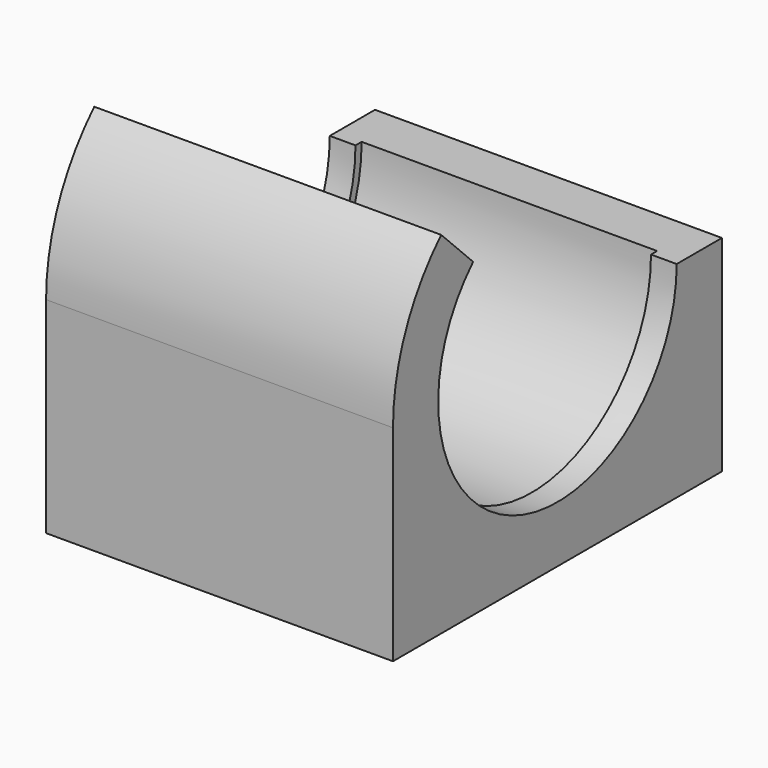
from build123d import *

# Parameters (mm, degrees)
PAD_DEPTH    = 13.5
PAD001_DEPTH = 1
PAD008_DEPTH = 1


with BuildPart() as part:
    # Sketch → Pad (new body)
    with BuildSketch(Plane.YZ):
        with BuildLine():
            Line((-8, 0), (-8, -8))
            Line((-8, -8), (8, -8))
            Line((8, 0), (8, -8))
            Line((8, 0), (6.1, 0))
            ThreePointArc((-6.1, 0), (0, -6.1), (6.1, 0))
            ThreePointArc((-4.3133513652, 4.3133513652), (-5.6356651483, 2.3343689374), (-6.1, 0))
            Line((-5.6568542495, 5.6568542495), (-4.3133513652, 4.3133513652))
            ThreePointArc((-5.6568542495, 5.6568542495), (-7.3910362601, 3.0614674589), (-8, 0))
        make_face()
    extrude(amount=PAD_DEPTH)

    # Sketch001 → Pad001 (join)
    with BuildSketch(Plane.YZ):
        with BuildLine():
            ThreePointArc((-4.1012193309, 4.1012193309), (-2.2195639077, -5.3585012886), (5.8, 0))
            Line((5.8, 0), (6.1, 0))
            ThreePointArc((-4.3133513652, 4.3133513652), (-2.3343689374, -5.6356651483), (6.1, 0))
            Line((-4.1012193309, 4.1012193309), (-4.3133513652, 4.3133513652))
        make_face()
    extrude(amount=PAD001_DEPTH)

    # Sketch013 (on Face5 of Pad001) → Pad008 (join)
    with BuildSketch(Plane.YZ.offset(13.5)):
        with BuildLine():
            ThreePointArc((-4.3133513652, 4.3133513652), (-2.3343689374, -5.6356651483), (6.1, 0))
            Line((5.8, 0), (6.1, 0))
            ThreePointArc((-4.1012193309, 4.1012193309), (-2.2195639077, -5.3585012886), (5.8, 0))
            Line((-4.3133513652, 4.3133513652), (-4.1012193309, 4.1012193309))
        make_face()
    extrude(amount=-PAD008_DEPTH)


solid = part.part
